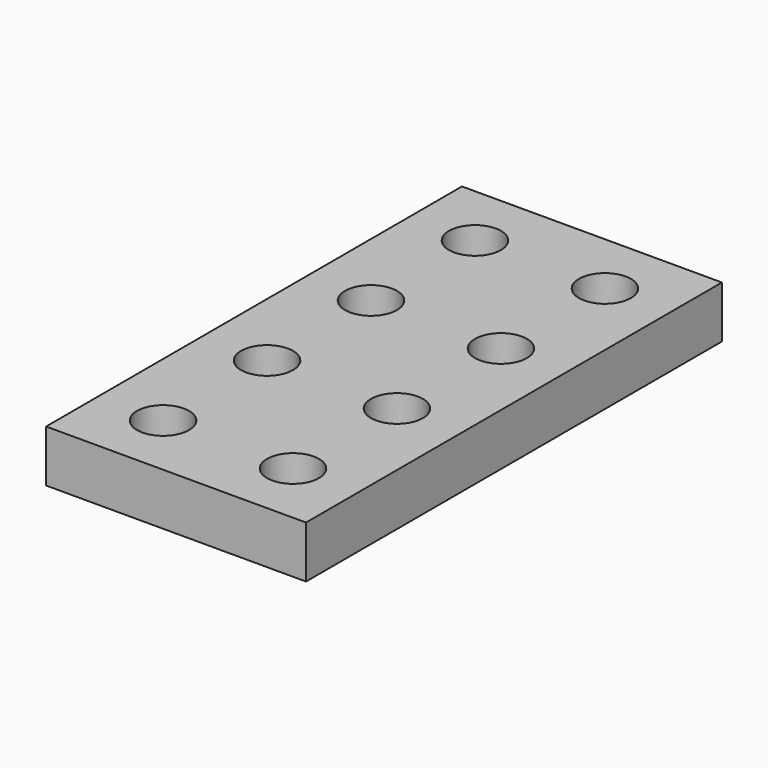
from build123d import *

# Parameters (mm, degrees)
SKETCH_W  = 50
SKETCH_H  = 50
SKETCH_R  = 5
PAD_DEPTH = 10


with BuildPart() as part:
    # Sketch → Pad (new body)
    with BuildSketch(Plane.XY):
        Rectangle(SKETCH_W, SKETCH_H)
        with Locations((12.5, 12.5)):
            Circle(SKETCH_R, mode=Mode.SUBTRACT)
        with Locations((-12.5, 12.5)):
            Circle(SKETCH_R, mode=Mode.SUBTRACT)
        with Locations((-12.5, -12.5)):
            Circle(SKETCH_R, mode=Mode.SUBTRACT)
        with Locations((12.5, -12.5)):
            Circle(SKETCH_R, mode=Mode.SUBTRACT)
    pad = extrude(amount=PAD_DEPTH)

    # Mirrored: Pad across face of Pad
    add(pad.mirror(Plane(origin=(0, -25, 5), x_dir=(1, 0, 0), z_dir=(0, -1, 0))))


solid = part.part
